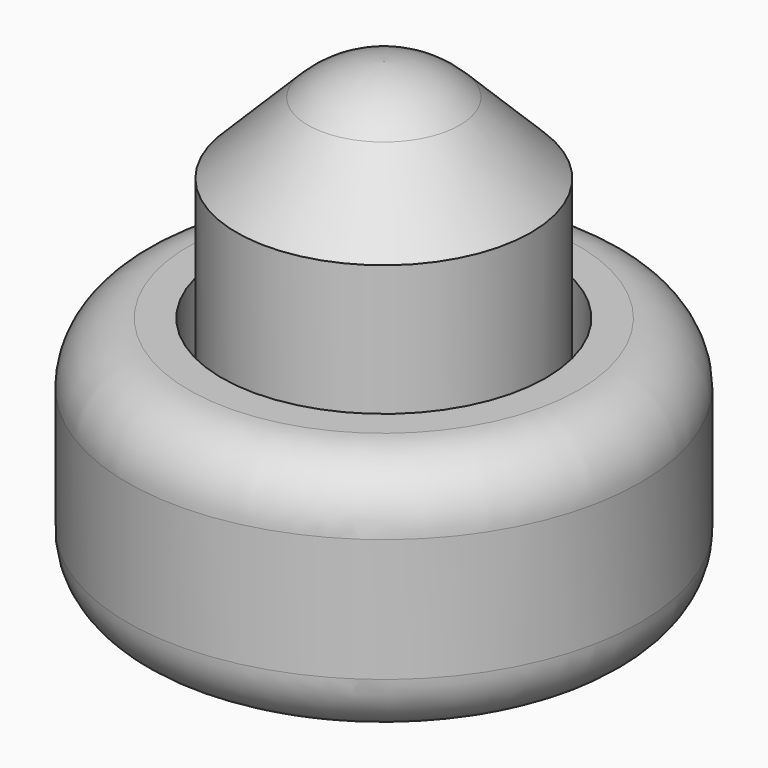
from build123d import *

# Parameters (mm, degrees)
F0_R     = 12.5
F0_R_2   = 7.9
F1_DEPTH = 12
F0_R_3   = 7.175
F2_DEPTH = 23
F3_DEPTH = 2
F4_R     = 3
F5_SIZE  = 5
F6_R     = 5.2


with BuildPart() as f1:
    # F0 (on Top) → F1 (new body)
    with BuildSketch(Plane.XY):
        Circle(F0_R)
        Circle(F0_R_2, mode=Mode.SUBTRACT)
    extrude(amount=F1_DEPTH)

    # F4
    f4_edges = [f1.edges().sort_by_distance(p)[0] for p in [
        (-12.5, 0, 12),
        (-12.5, 0, 0),
    ]]
    fillet(f4_edges, radius=F4_R)


with BuildPart() as f2:
    # F0 (on Top) → F2 (new body)
    with BuildSketch(Plane.XY):
        Circle(F0_R_3)
    extrude(amount=F2_DEPTH)

    # F5
    f5_edges = [f2.edges().sort_by_distance(p)[0] for p in [
        (-7.175, 0, 23),
    ]]
    chamfer(f5_edges, length=F5_SIZE)

    # F6
    f6_edges = [f2.edges().sort_by_distance(p)[0] for p in [
        (-2.175, 0, 23),
    ]]
    fillet(f6_edges, radius=F6_R)


with BuildPart() as f3:
    # F0 (on Top) → F3 (new body)
    with BuildSketch(Plane.XY):
        Circle(F0_R_2)
        Circle(F0_R_3, mode=Mode.SUBTRACT)
    extrude(amount=F3_DEPTH)


solid = Compound([f1.part, f2.part, f3.part])
